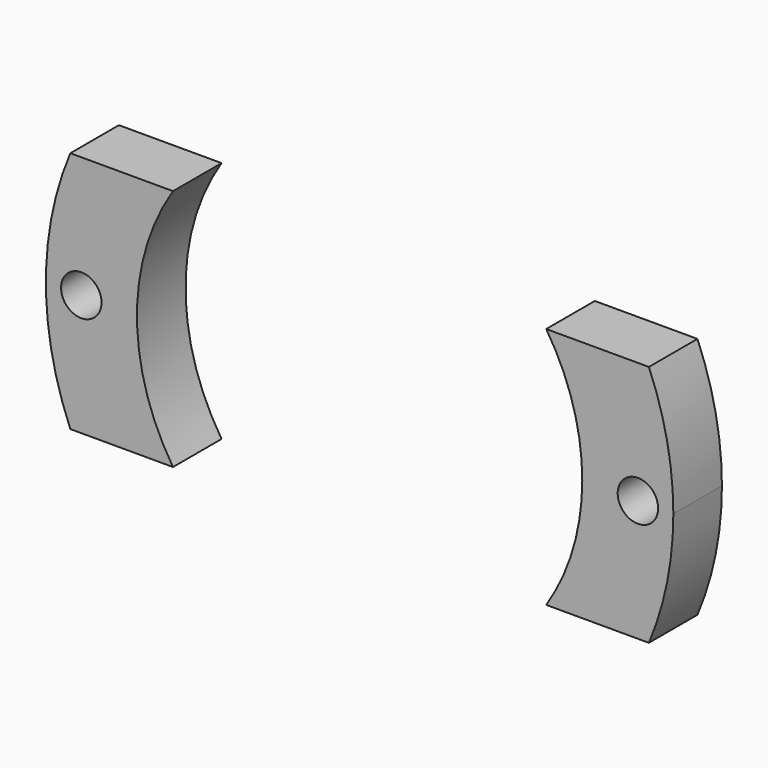
from build123d import *

# Parameters (mm, degrees)
F0_R     = 2
F1_DEPTH = 6


with BuildPart() as f1:
    # F0 (on Front) → F1 (new body)
    with BuildSketch(Plane.XZ):
        with BuildLine():
            Line((-21.360009, 12), (-28.583212, 12))
            ThreePointArc((-28.583212, 12), (-31, 0), (-28.583212, -12))
            Line((-28.583212, -12), (-21.360009, -12))
            ThreePointArc((-21.360009, -12), (-24.5, 0), (-21.360009, 12))
        make_face()
        with Locations((-27.5, 0)):
            Circle(F0_R, mode=Mode.SUBTRACT)
        with BuildLine():
            ThreePointArc((28.583212, -12), (30.389797, -6.120475), (31, 0))
            ThreePointArc((31, 0), (30.389797, 6.120475), (28.583212, 12))
            Line((28.583212, 12), (21.360009, 12))
            ThreePointArc((21.360009, 12), (23.702007, 6.202007), (24.5, 0))
            ThreePointArc((24.5, 0), (23.702007, -6.202007), (21.360009, -12))
            Line((21.360009, -12), (28.583212, -12))
        make_face()
        with Locations((27.5, 0)):
            Circle(F0_R, mode=Mode.SUBTRACT)
        with BuildLine():
            Line((-18.439089, 12), (-21.360009, 12))
            ThreePointArc((-21.360009, 12), (-24.5, 0), (-21.360009, -12))
            Line((-21.360009, -12), (-18.439089, -12))
            ThreePointArc((-18.439089, -12), (-22, 0), (-18.439089, 12))
        make_face()
        with BuildLine():
            ThreePointArc((24.5, 0), (23.702007, 6.202007), (21.360009, 12))
            Line((21.360009, 12), (18.439089, 12))
            ThreePointArc((18.439089, 12), (21.090993, 6.258596), (22, 0))
            ThreePointArc((22, 0), (21.090993, -6.258596), (18.439089, -12))
            Line((18.439089, -12), (21.360009, -12))
            ThreePointArc((21.360009, -12), (23.702007, -6.202007), (24.5, 0))
        make_face()
    extrude(amount=F1_DEPTH)


solid = f1.part
